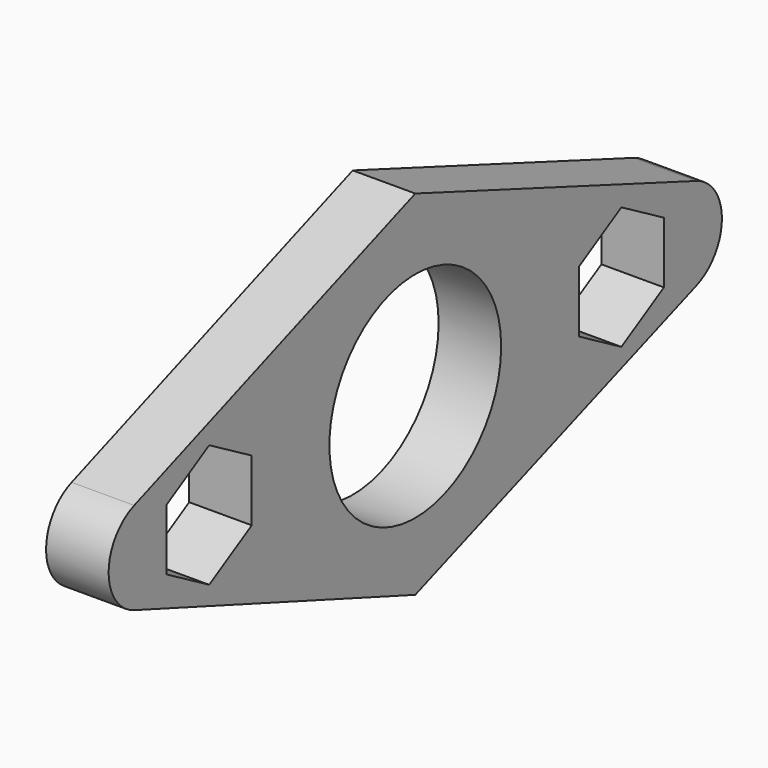
from build123d import *

# Parameters (mm, degrees)
F0_R     = 10.9
F1_DEPTH = 6.35
F2_R     = 5


with BuildPart() as f1:
    # F0 (on Right) → F1 (new body)
    with BuildSketch(Plane.YZ):
        Polygon((48.273511, 0), (0, 18.102249), (-48.273511, 0), (0, -17.76745), align=None)
        Polygon((-20.75447, -3.117691), (-26.15447, -6.235383), (-31.55447, -3.117691), (-31.55447, 3.117691), (-26.15447, 6.235383), (-20.75447, 3.117691), align=None, mode=Mode.SUBTRACT)
        Circle(F0_R, mode=Mode.SUBTRACT)
        Polygon((26.15447, -6.235383), (20.75447, -3.117691), (20.75447, 3.117691), (26.15447, 6.235383), (31.55447, 3.117691), (31.55447, -3.117691), align=None, mode=Mode.SUBTRACT)
    extrude(amount=F1_DEPTH)

    # F2
    f2_edges = [f1.edges().sort_by_distance(p)[0] for p in [
        (3.175, -48.273511, 0),
        (3.175, 48.273511, 0),
    ]]
    fillet(f2_edges, radius=F2_R)


solid = f1.part
